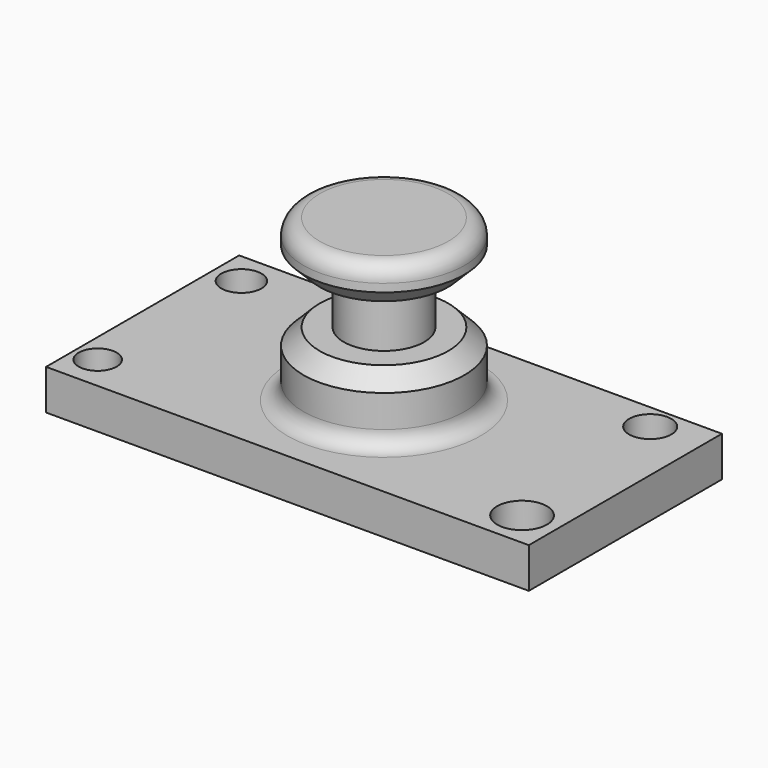
from build123d import *

# Parameters (mm, degrees)
F0_W     = 152.4
F0_H     = 76.2
F1_DEPTH = 12.7
F2_R     = 6.35
F2_R_2   = 5.9938939969
F2_R_3   = 6.6713502792
F2_R_4   = 7.8689754044
F3_DEPTH = 12.7
F4_W     = 25.4
F4_H     = 50.8
F6_W     = 17.78
F6_H     = 17.78
F8_R     = 5.08
F9_SIZE  = 5.08


with BuildPart() as f1:
    # F0 (on Top) → F1 (new body)
    with BuildSketch(Plane.XY):
        Rectangle(F0_W, F0_H)
    extrude(amount=F1_DEPTH)

    # F2 (on Top) → F3 (cut)
    with BuildSketch(Plane.XY):
        with Locations((-67.2256079361, 27.7522747686)):
            Circle(F2_R)
        with Locations((-68.6647296343, -27.1399345782)):
            Circle(F2_R_2)
        with Locations((60.0338615502, 30.0137525229)):
            Circle(F2_R_3)
        with Locations((64.9679941536, -26.7287574834)):
            Circle(F2_R_4)
    extrude(amount=F3_DEPTH, mode=Mode.SUBTRACT)

    # F4 (on Front) → F5 (revolve)
    with BuildSketch(Plane.XZ):
        with Locations((-12.7, 38.1)):
            Rectangle(F4_W, F4_H)
    revolve(axis=Axis((0, 0, 38.1), (0, 0, -1)))

    # F6 (on Front) → F7 (revolve, cut)
    with BuildSketch(Plane.XZ):
        with Locations((21.59, 41.91)):
            Rectangle(F6_W, F6_H)
    revolve(axis=Axis((0, 0, 63.5), (0, 0, -1)), mode=Mode.SUBTRACT)

    # F8
    f8_edges = [f1.edges().sort_by_distance(p)[0] for p in [
        (25.4, 0, 63.5),
        (25.4, 0, 12.7),
    ]]
    fillet(f8_edges, radius=F8_R)

    # F9
    f9_edges = [f1.edges().sort_by_distance(p)[0] for p in [
        (25.4, 0, 33.02),
        (25.4, 0, 50.8),
    ]]
    chamfer(f9_edges, length=F9_SIZE)


solid = f1.part
